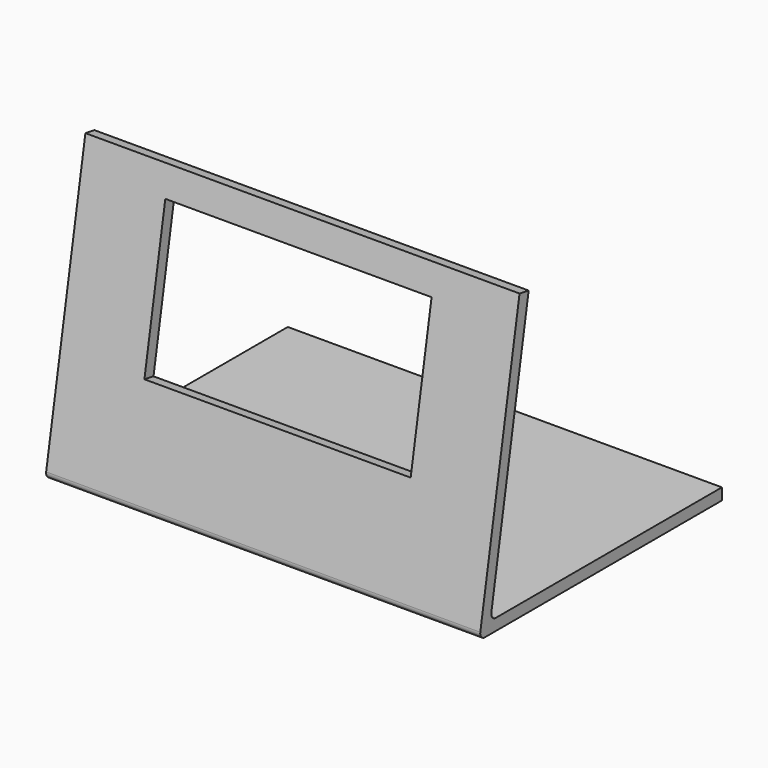
from build123d import *

# Parameters (mm, degrees)
F1_DEPTH = 75
F2_W     = 46
F2_H     = 26
F3_DEPTH = 2


with BuildPart() as f1:
    # F0 (on Right) → F1 (new body)
    with BuildSketch(Plane.YZ):
        with BuildLine():
            Line((0, -2), (0, 0))
            Line((0, 0), (-48.8082464074, 0))
            ThreePointArc((-48.8082464074, 0), (-49.5742908505, 0.3572123903), (-49.7930541604, 1.1736481777))
            Line((-49.7930541604, 1.1736481777), (-41.7314827958, 46.8930912953))
            Line((-41.7314827958, 46.8930912953), (-43.7010983018, 47.2403876506))
            Line((-43.7010983018, 47.2403876506), (-52.1765613456, -0.8263518223))
            ThreePointArc((-52.1765613456, -0.8263518223), (-51.9577980357, -1.6427876097), (-51.1917535926, -2))
            Line((-51.1917535926, -2), (0, -2))
        make_face()
    extrude(amount=F1_DEPTH)

    # F2 (on face) → F3 (cut, through all)
    with BuildSketch(Plane(origin=(0, -50.4619310257, 8.8977999385), x_dir=(1, 0, 0), z_dir=(0, -0.984807753, 0.1736481777))):
        with Locations((37.5, 20.9340839315)):
            Rectangle(F2_W, F2_H)
    extrude(amount=-F3_DEPTH, mode=Mode.SUBTRACT)


solid = f1.part
